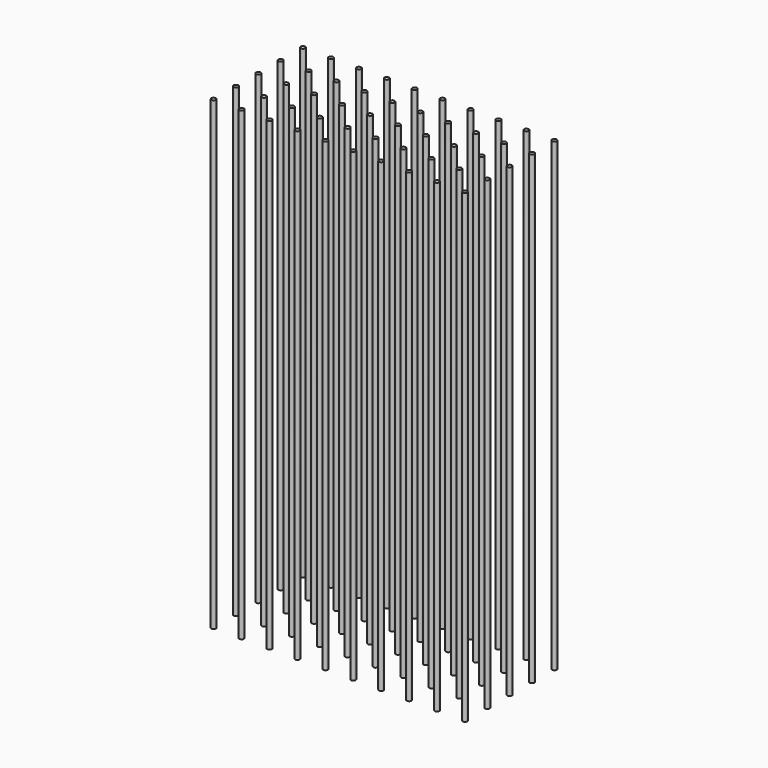
from build123d import *

# Parameters (mm, degrees)
F0_R     = 0.125
F1_DEPTH = 25


with BuildPart() as f1:
    # F0 (on Top) → F1 (new body)
    with BuildSketch(Plane.XY):
        with Locations((-57.437804, 51.70358)):
            Circle(F0_R)
        with Locations((-57.437804, 50.20358)):
            Circle(F0_R)
        with Locations((-57.437804, 48.70358)):
            Circle(F0_R)
        with Locations((-57.437804, 47.20358)):
            Circle(F0_R)
        with Locations((-57.437804, 45.70358)):
            Circle(F0_R)
        with Locations((-55.937804, 51.70358)):
            Circle(F0_R)
        with Locations((-55.937804, 50.20358)):
            Circle(F0_R)
        with Locations((-55.937804, 48.70358)):
            Circle(F0_R)
        with Locations((-55.937804, 47.20358)):
            Circle(F0_R)
        with Locations((-55.937804, 45.70358)):
            Circle(F0_R)
        with Locations((-54.437804, 51.70358)):
            Circle(F0_R)
        with Locations((-54.437804, 50.20358)):
            Circle(F0_R)
        with Locations((-54.437804, 48.70358)):
            Circle(F0_R)
        with Locations((-54.437804, 47.20358)):
            Circle(F0_R)
        with Locations((-54.437804, 45.70358)):
            Circle(F0_R)
        with Locations((-52.937804, 51.70358)):
            Circle(F0_R)
        with Locations((-52.937804, 50.20358)):
            Circle(F0_R)
        with Locations((-52.937804, 48.70358)):
            Circle(F0_R)
        with Locations((-52.937804, 47.20358)):
            Circle(F0_R)
        with Locations((-52.937804, 45.70358)):
            Circle(F0_R)
        with Locations((-51.437804, 51.70358)):
            Circle(F0_R)
        with Locations((-51.437804, 50.20358)):
            Circle(F0_R)
        with Locations((-51.437804, 48.70358)):
            Circle(F0_R)
        with Locations((-51.437804, 47.20358)):
            Circle(F0_R)
        with Locations((-51.437804, 45.70358)):
            Circle(F0_R)
        with Locations((-49.937804, 51.70358)):
            Circle(F0_R)
        with Locations((-49.937804, 50.20358)):
            Circle(F0_R)
        with Locations((-49.937804, 48.70358)):
            Circle(F0_R)
        with Locations((-49.937804, 47.20358)):
            Circle(F0_R)
        with Locations((-49.937804, 45.70358)):
            Circle(F0_R)
        with Locations((-48.437804, 51.70358)):
            Circle(F0_R)
        with Locations((-48.437804, 50.20358)):
            Circle(F0_R)
        with Locations((-48.437804, 48.70358)):
            Circle(F0_R)
        with Locations((-48.437804, 47.20358)):
            Circle(F0_R)
        with Locations((-48.437804, 45.70358)):
            Circle(F0_R)
        with Locations((-46.937804, 51.70358)):
            Circle(F0_R)
        with Locations((-46.937804, 50.20358)):
            Circle(F0_R)
        with Locations((-46.937804, 48.70358)):
            Circle(F0_R)
        with Locations((-46.937804, 47.20358)):
            Circle(F0_R)
        with Locations((-46.937804, 45.70358)):
            Circle(F0_R)
        with Locations((-45.437804, 51.70358)):
            Circle(F0_R)
        with Locations((-45.437804, 50.20358)):
            Circle(F0_R)
        with Locations((-45.437804, 48.70358)):
            Circle(F0_R)
        with Locations((-45.437804, 47.20358)):
            Circle(F0_R)
        with Locations((-45.437804, 45.70358)):
            Circle(F0_R)
        with Locations((-43.937804, 51.70358)):
            Circle(F0_R)
        with Locations((-43.937804, 50.20358)):
            Circle(F0_R)
        with Locations((-43.937804, 48.70358)):
            Circle(F0_R)
        with Locations((-43.937804, 47.20358)):
            Circle(F0_R)
        with Locations((-43.937804, 45.70358)):
            Circle(F0_R)
    extrude(amount=-F1_DEPTH)


solid = f1.part
